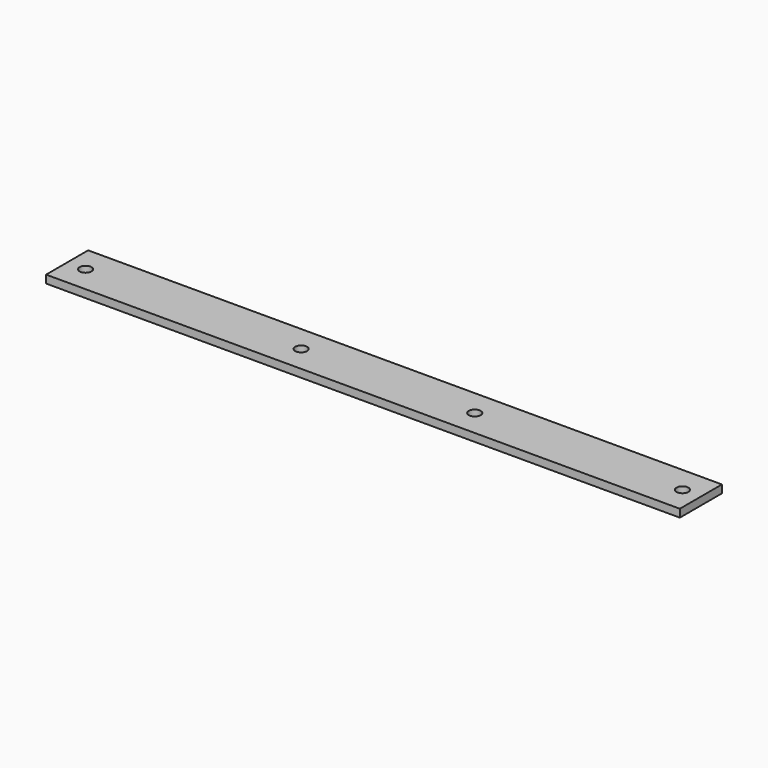
from build123d import *

# Parameters (mm, degrees)
BOX_W             = 241
BOX_H             = 20
BOX_DEPTH         = 3
CYLINDER_R        = 2.25
CYLINDER_DEPTH    = 3
CYLINDER001_R     = 2.25
CYLINDER001_DEPTH = 3
CYLINDER002_R     = 2.25
CYLINDER002_DEPTH = 3
CYLINDER003_R     = 2.25
CYLINDER003_DEPTH = 3


with BuildPart() as part:
    # Box → Box (join)
    with BuildSketch(Plane.XY):
        with Locations((120.5, 10)):
            Rectangle(BOX_W, BOX_H)
    extrude(amount=BOX_DEPTH)

    # Cylinder → Cylinder (cut)
    with BuildSketch(Plane(origin=(7, 10, 0), x_dir=(1, 0, 0), z_dir=(0, 0, 1))):
        Circle(CYLINDER_R)
    extrude(amount=CYLINDER_DEPTH, mode=Mode.SUBTRACT)

    # Cylinder001 → Cylinder001 (cut)
    with BuildSketch(Plane(origin=(234, 10, 0), x_dir=(1, 0, 0), z_dir=(0, 0, 1))):
        Circle(CYLINDER001_R)
    extrude(amount=CYLINDER001_DEPTH, mode=Mode.SUBTRACT)

    # Cylinder002 → Cylinder002 (cut)
    with BuildSketch(Plane(origin=(89, 10, 0), x_dir=(1, 0, 0), z_dir=(0, 0, 1))):
        Circle(CYLINDER002_R)
    extrude(amount=CYLINDER002_DEPTH, mode=Mode.SUBTRACT)

    # Cylinder003 → Cylinder003 (cut)
    with BuildSketch(Plane(origin=(155, 10, 0), x_dir=(1, 0, 0), z_dir=(0, 0, 1))):
        Circle(CYLINDER003_R)
    extrude(amount=CYLINDER003_DEPTH, mode=Mode.SUBTRACT)


solid = part.part
